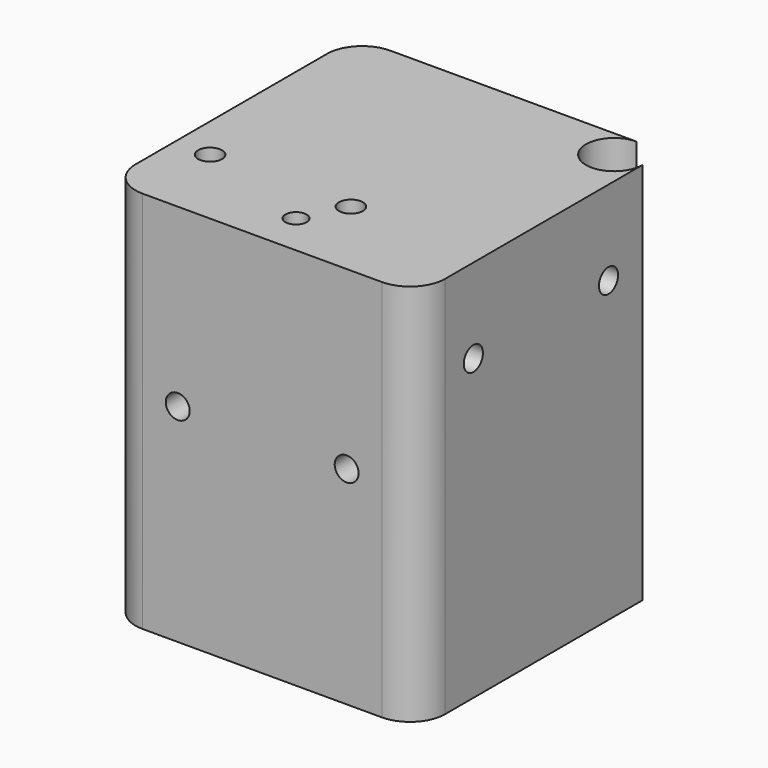
from build123d import *

# Parameters (mm, degrees)
F0_R     = 1.7
F0_R_2   = 1.5
F1_DEPTH = 54.45
F2_R     = 1.7
F3_DEPTH = 44
F4_R     = 1.7
F5_DEPTH = 44
F6_R     = 5
F7_DEPTH = 55
F8_DEPTH = 5


with BuildPart() as f1:
    # F0 (on Top) → F1 (new body)
    with BuildSketch(Plane.XY):
        with BuildLine():
            Line((18, 22), (-22, 22))
            Line((-22, 22), (-22, -22))
            Line((-22, -22), (22, -22))
            Line((22, -22), (22, 18))
            ThreePointArc((22, 18), (15.171573, 15.171573), (18, 22))
        make_face()
        with Locations((-17, -10)):
            Circle(F0_R, mode=Mode.SUBTRACT)
        with Locations((0, -16)):
            Circle(F0_R_2, mode=Mode.SUBTRACT)
        with Locations((3, -10)):
            Circle(F0_R, mode=Mode.SUBTRACT)
        with Locations((-17, -10)):
            Circle(F0_R)
        with Locations((0, -16)):
            Circle(F0_R_2)
        with Locations((3, -10)):
            Circle(F0_R)
    extrude(amount=-F1_DEPTH)

    # F2 (on face) → F3 (cut)
    with BuildSketch(Plane.XZ.offset(22)):
        with Locations((-12, -25)):
            Circle(F2_R)
        with Locations((12, -25)):
            Circle(F2_R)
    extrude(amount=-F3_DEPTH, mode=Mode.SUBTRACT)

    # F4 (on face) → F5 (cut)
    with BuildSketch(Plane.YZ.offset(22)):
        with Locations((-12, -12)):
            Circle(F4_R)
        with Locations((12, -12)):
            Circle(F4_R)
    extrude(amount=-F5_DEPTH, mode=Mode.SUBTRACT)

    # F6
    f6_edges = [f1.edges().sort_by_distance(p)[0] for p in [
        (22, -22, -27.225),
        (-22, -22, -27.225),
        (-22, 22, -27.225),
    ]]
    fillet(f6_edges, radius=F6_R)

    # F0 (on Top) → F7 (cut)
    with BuildSketch(Plane.XY):
        with Locations((0, -16)):
            Circle(F0_R_2)
    extrude(amount=-F7_DEPTH, mode=Mode.SUBTRACT)

    # F0 (on Top) → F8 (cut)
    with BuildSketch(Plane.XY):
        with Locations((-17, -10)):
            Circle(F0_R)
        with Locations((3, -10)):
            Circle(F0_R)
    extrude(amount=-F8_DEPTH, mode=Mode.SUBTRACT)


solid = f1.part
